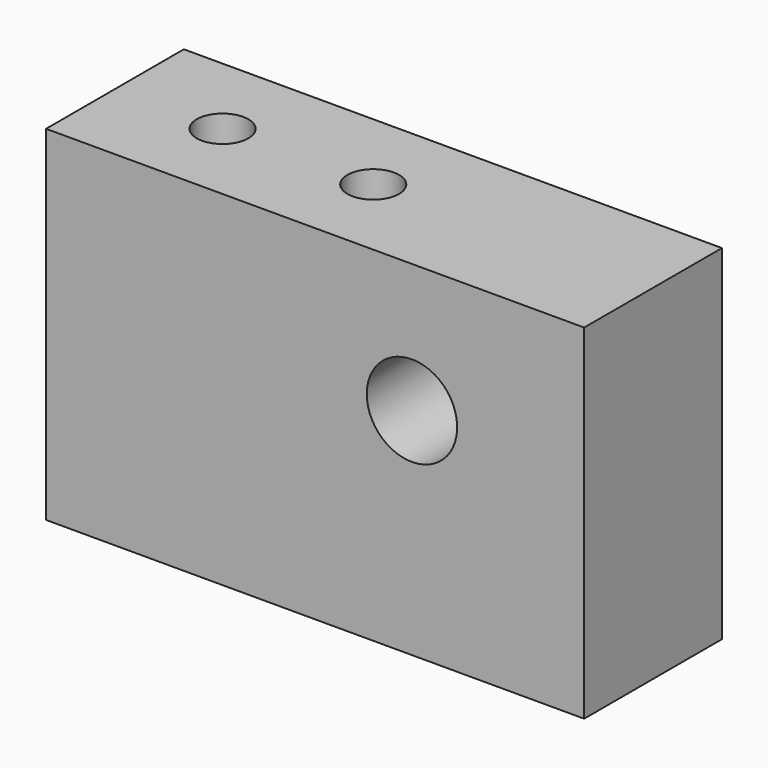
from build123d import *

# Parameters (mm, degrees)
F0_W     = 25
F0_H     = 16
F1_DEPTH = 4
F3_D     = 4.2
F3_DEPTH = 14.4
F3_TIP   = 1.2618073
F5_D     = 2.4
F5_DEPTH = 9.8
F5_TIP   = 0.7210327428


with BuildPart() as f1:
    # F0 (on Front) → F1 (new body, symmetric)
    with BuildSketch(Plane.XZ):
        Rectangle(F0_W, F0_H)
    extrude(amount=F1_DEPTH, both=True)

    # F3
    with Locations(Plane.XZ.offset(4)):
        with Locations((4.5, 2)):
            Hole(F3_D / 2, depth=F3_DEPTH)
            with Locations((0, 0, -(F3_DEPTH + F3_TIP / 2))):  # 118° drill point
                Cone(0, F3_D / 2, F3_TIP, mode=Mode.SUBTRACT)

    # F5
    with Locations(Plane.XY.offset(8)):
        with Locations((-0.5, 0), (-7.5, 0)):
            Hole(F5_D / 2, depth=F5_DEPTH)
            with Locations((0, 0, -(F5_DEPTH + F5_TIP / 2))):  # 118° drill point
                Cone(0, F5_D / 2, F5_TIP, mode=Mode.SUBTRACT)


solid = f1.part
